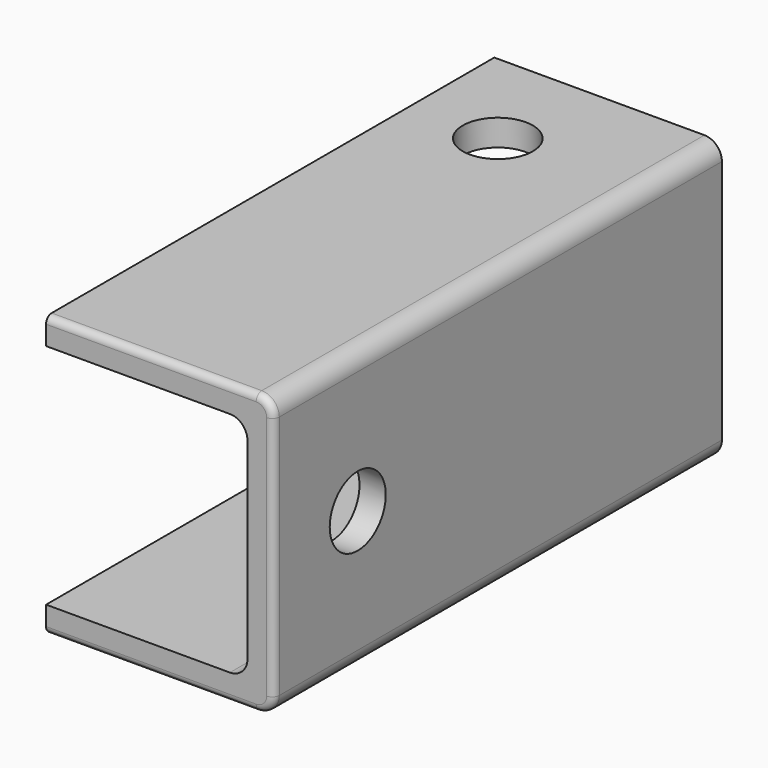
from build123d import *

# Parameters (mm, degrees)
F7_DEPTH       = 101.6
F2_DEPTH       = 25.4
F2_DEPTH_BACK  = 25.4
F4_D           = 12.7
F4_ON_F1_D     = 12.7
F4_ON_F1_DEPTH = 25.401
F5_D           = 12.7
F6_R           = 1.27


with BuildPart() as f7:
    # F0 (on Front) → F7 (new body)
    with BuildSketch(Plane.XZ):
        with BuildLine():
            Line((-22.225, -25.4), (22.225, -25.4))
            ThreePointArc((22.225, -25.4), (24.4700640303, -24.4700640303), (25.4, -22.225))
            Line((25.4, -22.225), (25.4, 22.225))
            ThreePointArc((25.4, 22.225), (24.4700640303, 24.4700640303), (22.225, 25.4))
            Line((22.225, 25.4), (-22.225, 25.4))
            ThreePointArc((-22.225, 25.4), (-24.4700640303, 24.4700640303), (-25.4, 22.225))
            Line((-25.4, 22.225), (-25.4, -22.225))
            ThreePointArc((-25.4, -22.225), (-24.4700640303, -24.4700640303), (-22.225, -25.4))
        make_face()
        with BuildLine():
            ThreePointArc((20.6375, -17.4625), (19.7075640303, -19.7075640303), (17.4625, -20.6375))
            Line((17.4625, -20.6375), (-17.4625, -20.6375))
            ThreePointArc((-17.4625, -20.6375), (-19.7075640303, -19.7075640303), (-20.6375, -17.4625))
            Line((-20.6375, -17.4625), (-20.6375, 17.4625))
            ThreePointArc((-20.6375, 17.4625), (-19.7075640303, 19.7075640303), (-17.4625, 20.6375))
            Line((-17.4625, 20.6375), (17.4625, 20.6375))
            ThreePointArc((17.4625, 20.6375), (19.7075640303, 19.7075640303), (20.6375, 17.4625))
            Line((20.6375, 17.4625), (20.6375, -17.4625))
        make_face(mode=Mode.SUBTRACT)
    extrude(amount=F7_DEPTH)

    # F1 (on Top) → F2 (cut, two sides)
    with BuildSketch(Plane.XY) as f2_sk:
        Polygon((-15.875, -63.5), (-15.875, 0), (-37.8918275237, 0), (-37.8918275237, -101.6), (-20.6375, -101.6), (-15.875, -101.6), align=None)
    extrude(amount=-F2_DEPTH, mode=Mode.SUBTRACT)
    extrude(f2_sk.sketch, amount=F2_DEPTH_BACK, mode=Mode.SUBTRACT)

    # F4 (through all)
    with Locations(Plane(origin=(0, 0, 0), x_dir=(0, 1, 0), z_dir=(-1, 0, 0))):
        with Locations((-82.55, 0)):
            Hole(F4_D / 2)

    # F4 on F1 (through all, one way)
    with BuildSketch(Plane(origin=(0, 0, 0), x_dir=(1, 0, 0), z_dir=(0, 0, -1))):
        with Locations((0, 19.05)):
            Circle(F4_ON_F1_D / 2)
    extrude(amount=-F4_ON_F1_DEPTH, mode=Mode.SUBTRACT)

    # F5 (through all)
    with Locations(Plane.XY):
        with Locations((0, -19.05)):
            Hole(F5_D / 2)

    # F6
    f6_edges = [f7.edges().sort_by_distance(p)[0] for p in [
        (25.4, -101.6, 0),
    ]]
    fillet(f6_edges, radius=F6_R)


solid = f7.part
